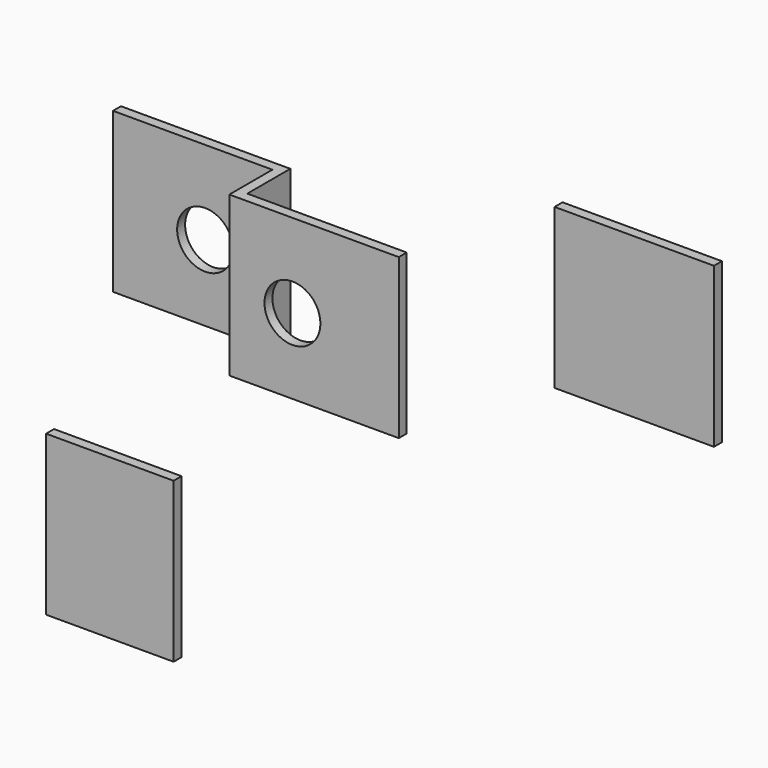
from build123d import *

# Parameters (mm, degrees)
F0_W      = 1.5875
F0_H      = 25.4043829627
F1_DEPTH  = 10.16
F0_W_2    = 25.4043843597
F2_DEPTH  = 1.5875
F3_W      = 25.4116732202
F3_H      = 25.4043829627
F4_DEPTH  = 1.5875
F5_W      = 20.3264839947
F5_H      = 25.4
F6_DEPTH  = 1.5875
F7_R      = 4.4567576485
F8_DEPTH  = 25.4
F9_R      = 4.4675198024
F10_DEPTH = 25.4


with BuildPart() as f1:
    # F0 (on Front) → F1 (new body)
    with BuildSketch(Plane.XZ):
        with Locations((-22.8847930461, 7.8698357102)):
            Rectangle(F0_W, F0_H)
    extrude(amount=F1_DEPTH)

    # F0 (on Front) → F2 (join)
    with BuildSketch(Plane.XZ):
        with Locations((-36.380735226, 7.8698357102)):
            Rectangle(F0_W_2, F0_H)
        with Locations((-22.8847930461, 7.8698357102)):
            Rectangle(F0_W, F0_H)
    extrude(amount=F2_DEPTH)

    # F3 (on face) → F4 (join)
    with BuildSketch(Plane.XZ.offset(10.16)):
        with Locations((-9.385206436, 7.8698357102)):
            Rectangle(F3_W, F3_H)
    extrude(amount=-F4_DEPTH)

    # F7 (on face) → F8 (cut)
    with BuildSketch(Plane.XZ.offset(10.16)):
        with Locations((-13.6275719851, 7.186954841)):
            Circle(F7_R)
    extrude(amount=-F8_DEPTH, mode=Mode.SUBTRACT)

    # F9 (on face) → F10 (cut)
    with BuildSketch(Plane.XZ.offset(1.5875)):
        with Locations((-34.3923680484, 7.2417431511)):
            Circle(F9_R)
    extrude(amount=-F10_DEPTH, mode=Mode.SUBTRACT)


with BuildPart() as f2:
    # F0 (on Front) → F2, piece 2 (new body)
    with BuildSketch(Plane.XZ):
        with Locations((33.9954560623, 17.2741909046)):
            Rectangle(F0_W_2, F0_H)
    extrude(amount=F2_DEPTH)


with BuildPart() as f6:
    # F5 (on Front) → F6 (new body)
    with BuildSketch(Plane.XZ):
        with Locations((-49.5862867683, -40.8960048437)):
            Rectangle(F5_W, F5_H)
    extrude(amount=F6_DEPTH)


solid = Compound([f1.part, f2.part, f6.part])
